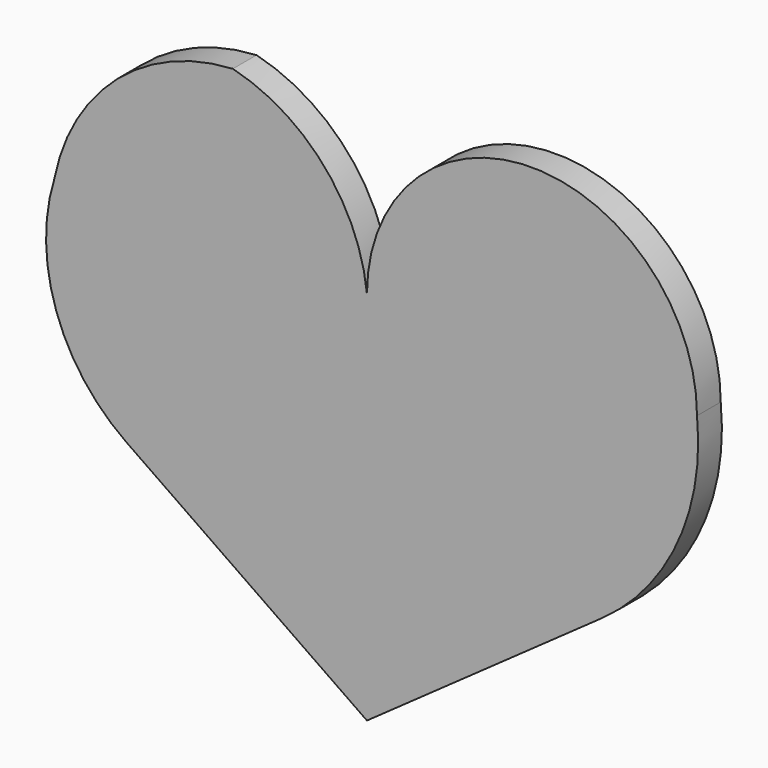
from build123d import *

# Parameters (mm, degrees)
F1_DEPTH = 5


with BuildPart() as f1:
    # F0 (on Front) → F1 (new body)
    with BuildSketch(Plane.XZ):
        with BuildLine():
            ThreePointArc((39.671052, -35.230264), (52.427442, -19.776479), (55.657893, 0))
            ThreePointArc((55.657893, 0), (27.828947, 27.828947), (0, 0))
            ThreePointArc((0, 0), (-7.19782, 16.589503), (-22.607862, 26.052631))
            ThreePointArc((-22.607862, 26.052631), (-42.123539, 18.190011), (-52.697372, 0))
            ThreePointArc((-52.697372, 0), (-52.395006, -19.601983), (-40.559214, -35.230264))
            Line((-40.559214, -35.230264), (0, -63.351638))
            Line((0, -63.351638), (39.671052, -35.230264))
        make_face()
    extrude(amount=F1_DEPTH)


solid = f1.part
